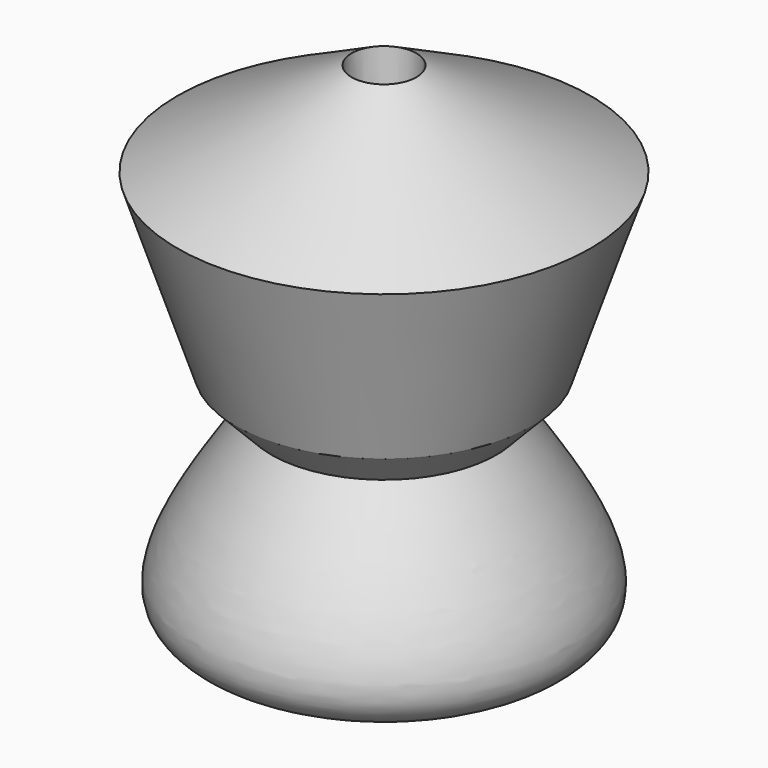
from build123d import *


with BuildPart() as f2:
    # F1 (on Front) → F2 (revolve)
    with BuildSketch(Plane.XZ):
        with BuildLine():
            add(Edge.make_bspline(
                [(-29.6076145023, -20.0729593635), (-41.1864159425, -37.0076161089), (-60.5026166739, -65.2586601137), (-27.4785711251, -75.1130279832), (-2.5816717007, -56.7645710334), (-6.0904756102, 12.4273250097), (-8.5310079157, 60.5534277856)],
                knots=[0, 0, 0, 0, 0.2540078089, 0.4237455707, 0.5991889011, 1, 1, 1, 1], degree=3))
            Line((-8.5310079157, 60.5534277856), (-54.3642640114, 35.7967801392))
            Line((-54.3642640114, 35.7967801392), (-38.9749966562, -10.371029377))
            Line((-38.9749966562, -10.371029377), (-29.6076145023, -20.0729593635))
        make_face()
    revolve(axis=Axis((0, 0, 0), (0, 0, 1)))


solid = f2.part
